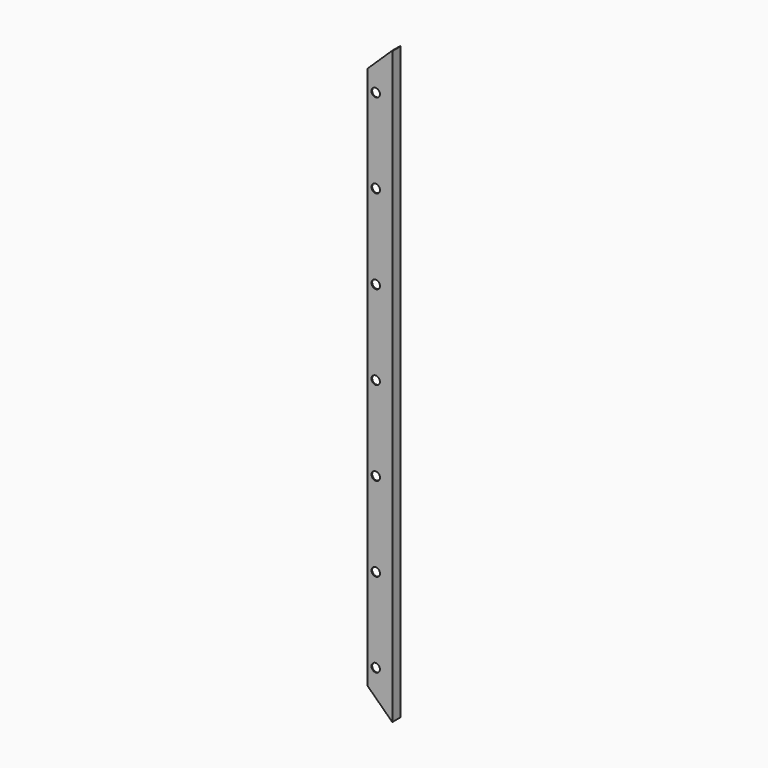
from build123d import *

# Parameters (mm, degrees)
F1_DEPTH = 7000
F3_DEPTH = 200
F4_R     = 50
F5_DEPTH = 120.001


with BuildPart() as f1:
    # F0 (on Top) → F1 (new body)
    with BuildSketch(Plane.XY):
        Polygon((-100, 0), (-110, 0), (-110, -30), (190, -30), (190, 90), (180, 90), (180, -20), (-100, -20), align=None)
    extrude(amount=F1_DEPTH)

    # F2 (on face) → F3 (cut)
    with BuildSketch(Plane.XZ.offset(30)):
        Polygon((182.8939372419, 0), (-110, 282.8443874035), (-110, 0), align=None)
        Polygon((-110, 7000), (-110, 6717.1556125965), (182.8939372419, 7000), align=None)
    extrude(amount=-F3_DEPTH, mode=Mode.SUBTRACT)

    # F4 (on face) → F5 (cut, through all)
    with BuildSketch(Plane.XZ.offset(30)):
        with Locations((-10, 6500)):
            Circle(F4_R)
        with Locations((-10, 5500)):
            Circle(F4_R)
        with Locations((-10, 4500)):
            Circle(F4_R)
        with Locations((-10, 3500)):
            Circle(F4_R)
        with Locations((-10, 2500)):
            Circle(F4_R)
        with Locations((-10, 1500)):
            Circle(F4_R)
        with Locations((-10, 500)):
            Circle(F4_R)
    extrude(amount=-F5_DEPTH, mode=Mode.SUBTRACT)


solid = f1.part
